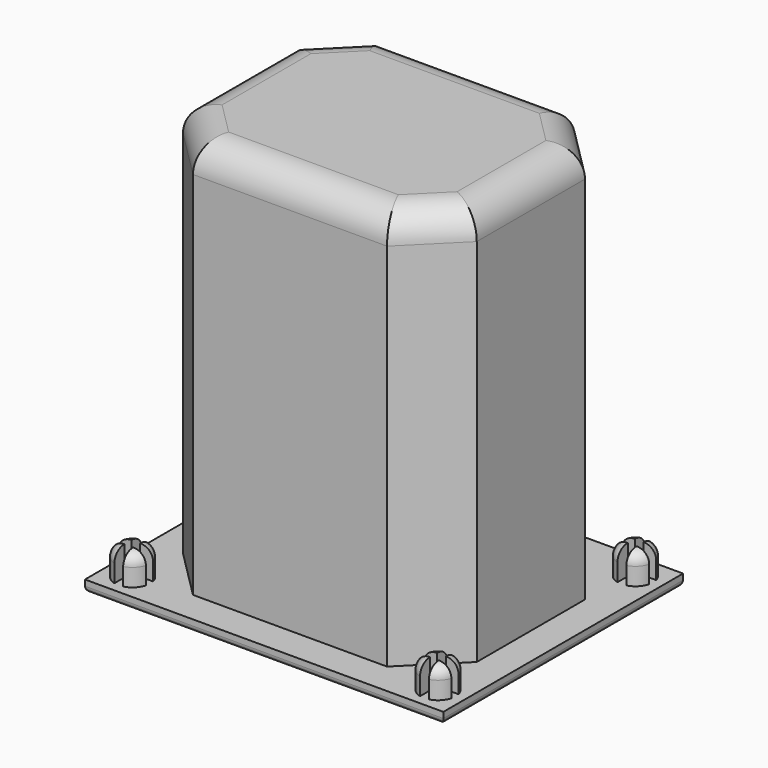
from build123d import *

# Parameters (mm, degrees)
SKETCH001_W                = 61
SKETCH001_H                = 51
PAD_DEPTH                  = 2
SKETCH002_R                = 3
PAD001_DEPTH               = 5
SKETCH002_MIRRORED_2_R     = 3
PAD001_MIRRORED_2_DEPTH    = 5
FILLET_R                   = 2
FILLET001_R                = 1
POCKET_DEPTH               = 5
POCKET_MIRRORED002_2_DEPTH = 5
PAD025_DEPTH               = 70
POCKET018_DEPTH            = 68
SKETCH063_W                = 1.5
SKETCH063_H                = 68
PAD024_DEPTH               = 47
FILLET027_R                = 5


with BuildPart() as part:
    # Sketch001 → Pad (new body)
    with BuildSketch(Plane.XY):
        Rectangle(SKETCH001_W, SKETCH001_H)
    extrude(amount=PAD_DEPTH)

    # Sketch002 (on DatumPlane) → Pad001 (join)
    with BuildSketch(Plane.XY.offset(2)):
        with Locations((-26, 21)):
            Circle(SKETCH002_R)
    pad001 = extrude(amount=PAD001_DEPTH)

    # Sketch002 Mirrored 2 → Pad001 Mirrored 2 (add)
    with BuildSketch(Plane(origin=(0, 0, 2), x_dir=(-1, 0, 0), z_dir=(0, 0, -1))):
        with Locations((-26, 21)):
            Circle(SKETCH002_MIRRORED_2_R)
    pad001_mirrored_2 = extrude(amount=-PAD001_MIRRORED_2_DEPTH)

    # Mirrored001: Pad001, Pad001 Mirrored 2 across Sketch002 H_Axis
    add(pad001.mirror(Plane(origin=(0, 0, 2), x_dir=(0, 0, 1), z_dir=(0, 1, 0))))
    add(pad001_mirrored_2.mirror(Plane(origin=(0, 0, 2), x_dir=(0, 0, 1), z_dir=(0, 1, 0))))

    # Fillet
    fillet_edges = [part.edges().sort_by_distance(p)[0] for p in [
        (29, 21, 7),
        (29, -21, 7),
        (-29, -21, 7),
        (-29, 21, 7),
    ]]
    fillet(fillet_edges, radius=FILLET_R)

    # Fillet001
    fillet001_edges = [part.edges().sort_by_distance(p)[0] for p in [
        (0, 25.5, 0),
        (30.5, 0, 0),
        (0, -25.5, 0),
        (-30.5, 0, 0),
    ]]
    fillet(fillet001_edges, radius=FILLET001_R)

    # Sketch003 (on DatumPlane) → Pocket (cut)
    with BuildSketch(Plane.XY.offset(7)):
        Polygon((-29.265642, -20.28286), (-26.765642, -20.28286), (-26.765642, -17.78286), (-25.265642, -17.78286), (-25.265642, -20.28286), (-22.765642, -20.28286), (-22.765642, -21.78286), (-25.265642, -21.78286), (-25.265642, -24.28286), (-26.765642, -24.28286), (-26.765642, -21.78286), (-29.265642, -21.78286), align=None)
    pocket = extrude(amount=-POCKET_DEPTH, mode=Mode.SUBTRACT)

    # Sketch003 Mirrored002 2 → Pocket Mirrored002 2 (cut)
    with BuildSketch(Plane(origin=(0, 0, 7), x_dir=(-1, 0, 0), z_dir=(0, 0, -1))):
        Polygon((-29.265642, -20.28286), (-26.765642, -20.28286), (-26.765642, -17.78286), (-25.265642, -17.78286), (-25.265642, -20.28286), (-22.765642, -20.28286), (-22.765642, -21.78286), (-25.265642, -21.78286), (-25.265642, -24.28286), (-26.765642, -24.28286), (-26.765642, -21.78286), (-29.265642, -21.78286), align=None)
    pocket_mirrored002_2 = extrude(amount=POCKET_MIRRORED002_2_DEPTH, mode=Mode.SUBTRACT)

    # Mirrored003: Pocket, Pocket Mirrored002 2 across Sketch003 H_Axis
    add(pocket.mirror(Plane(origin=(0, 0, 7), x_dir=(0, 0, 1), z_dir=(0, 1, 0))), mode=Mode.SUBTRACT)
    add(pocket_mirrored002_2.mirror(Plane(origin=(0, 0, 7), x_dir=(0, 0, 1), z_dir=(0, 1, 0))), mode=Mode.SUBTRACT)


with BuildPart() as part_1:
    # Body placement: moved
    add(part.part.moved(Location((0, -65, 0))))


with BuildPart() as part_2:
    # BaseFeature placement: moved
    add(part_1.part.moved(Location((0, 65, 0))))

    # Sketch060 (on DatumPlane) → Pad025 (new body)
    with BuildSketch(Plane(origin=(0, 0, 0), x_dir=(1, 0, 0), z_dir=(0, 0, -1))):
        Polygon((-25, 11.514719), (-16.514719, 20), (16.514719, 20), (25, 11.514719), (25, -11.514719), (16.514719, -20), (-16.514719, -20), (-25, -11.514719), align=None)
    extrude(amount=-PAD025_DEPTH)

    # Sketch061 (on DatumPlane) → Pocket018 (cut)
    with BuildSketch(Plane(origin=(0, 0, 0), x_dir=(1, 0, 0), z_dir=(0, 0, -1))):
        Polygon((-23.5, 11.428932), (-16.428932, 18.5), (16.428932, 18.5), (23.5, 11.428932), (23.5, -11.428932), (16.428932, -18.5), (-16.428932, -18.5), (-23.5, -11.428932), align=None)
    extrude(amount=-POCKET018_DEPTH, mode=Mode.SUBTRACT)


with BuildPart() as part_3:
    # Body022 placement: moved
    add(part_2.part.moved(Location((225, 179, 0))))


with BuildPart() as part_4:
    # Clone016 placement: moved
    add(part_3.part.moved(Location((-225, -179, 0))))

    # Sketch063 (on DatumPlane) → Pad024 (new body)
    with BuildSketch(Plane(origin=(23.5, 0, 0), x_dir=(0, -1, 0), z_dir=(-1, 0, 0))):
        with Locations((0, 34)):
            Rectangle(SKETCH063_W, SKETCH063_H)
    extrude(amount=PAD024_DEPTH)

    # Fillet027
    fillet027_edges = [part_4.edges().sort_by_distance(p)[0] for p in [
        (-23.5, 6.089466, 68),
        (-19.964466, 14.964466, 68),
        (0, 18.5, 68),
        (19.964466, 14.964466, 68),
        (23.5, 6.089466, 68),
        (0, 0.75, 68),
        (-23.5, -6.089466, 68),
        (0, -0.75, 68),
        (23.5, -6.089466, 68),
        (19.964466, -14.964466, 68),
        (0, -18.5, 68),
        (-19.964466, -14.964466, 68),
        (-20.757359, -15.757359, 70),
        (0, -20, 70),
        (20.757359, -15.757359, 70),
        (25, 0, 70),
        (20.757359, 15.757359, 70),
        (0, 20, 70),
        (-20.757359, 15.757359, 70),
        (-25, 0, 70),
    ]]
    fillet(fillet027_edges, radius=FILLET027_R)


with BuildPart() as part_5:
    # Body024 placement: moved
    add(part_4.part.moved(Location((74, 180, 0))))


solid = part_5.part
